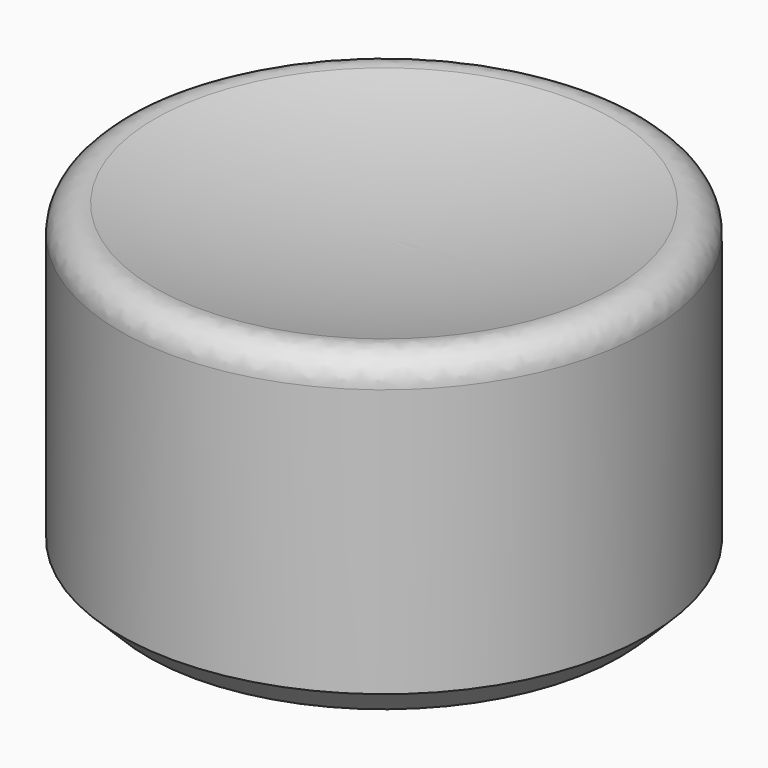
from build123d import *

# Parameters (mm, degrees)
F2_SIZE = 0.5
F3_R    = 0.5
F4_R    = 0.25


with BuildPart() as f1:
    # F0 (on Front) → F1 (revolve)
    with BuildSketch(Plane.XZ):
        with BuildLine():
            Line((1.706, 3.140357), (1.706, 0))
            Line((1.706, 0), (4.765, 0))
            Line((4.765, 0), (4.765, 6))
            ThreePointArc((4.765, 6), (2.409545, 5.461016), (0, 5.28))
            Line((0, 5.28), (0, 3.140357))
            Line((0, 3.140357), (1.706, 3.140357))
        make_face()
    revolve(axis=Axis((0, 0, 4.210179), (0, 0, -1)))

    # F2
    f2_edges = [f1.edges().sort_by_distance(p)[0] for p in [
        (-4.765, 0, 0),
    ]]
    chamfer(f2_edges, length=F2_SIZE)

    # F3
    f3_edges = [f1.edges().sort_by_distance(p)[0] for p in [
        (-4.765, 0, 6),
    ]]
    fillet(f3_edges, radius=F3_R)

    # F4
    f4_edges = [f1.edges().sort_by_distance(p)[0] for p in [
        (-1.706, 0, 3.140357),
    ]]
    fillet(f4_edges, radius=F4_R)


solid = f1.part
